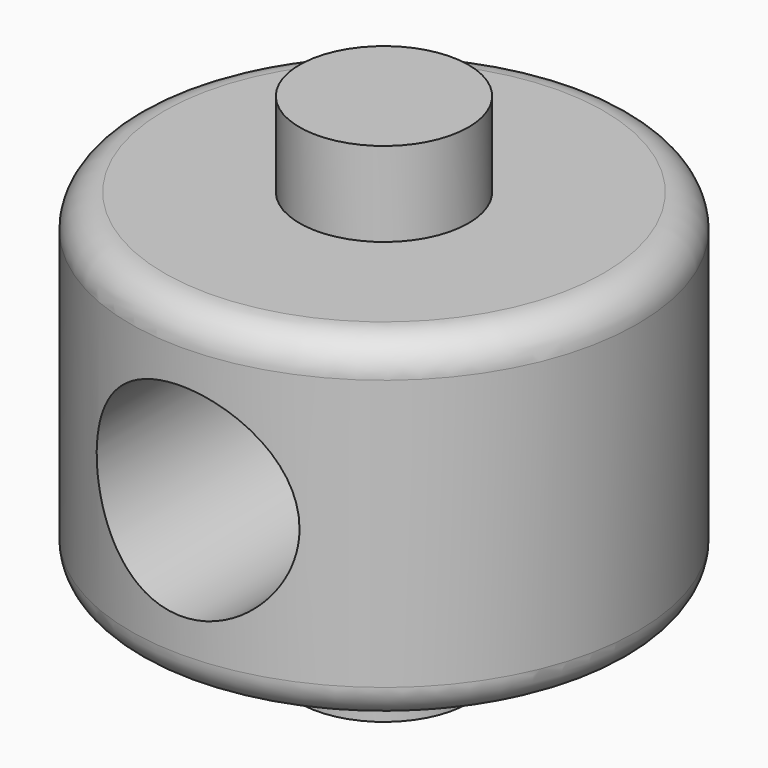
from build123d import *

# Parameters (mm, degrees)
F0_R          = 15
F1_DEPTH      = 10
F2_R          = 2
F3_R          = 5
F4_DEPTH      = 5
F5_R          = 5
F6_DEPTH      = 5
F7_R          = 6
F8_DEPTH      = 15.001
F8_DEPTH_BACK = 15.001


with BuildPart() as f1:
    # F0 (on Top) → F1 (new body, symmetric)
    with BuildSketch(Plane.XY):
        Circle(F0_R)
    extrude(amount=F1_DEPTH, both=True)

    # F2
    f2_edges = [f1.edges().sort_by_distance(p)[0] for p in [
        (-15, 0, 10),
        (-15, 0, -10),
    ]]
    fillet(f2_edges, radius=F2_R)

    # F3 (on face) → F4 (join)
    with BuildSketch(Plane.XY.offset(10)):
        Circle(F3_R)
    extrude(amount=F4_DEPTH)

    # F5 (on face) → F6 (join)
    with BuildSketch(Plane(origin=(0, 0, -10), x_dir=(1, 0, 0), z_dir=(0, 0, -1))):
        Circle(F5_R)
    extrude(amount=F6_DEPTH)

    # F7 (on Front) → F8 (cut, two sides)
    with BuildSketch(Plane.XZ) as f8_sk:
        Circle(F7_R)
    extrude(amount=F8_DEPTH, mode=Mode.SUBTRACT)
    extrude(f8_sk.sketch, amount=-F8_DEPTH_BACK, mode=Mode.SUBTRACT)


solid = f1.part
